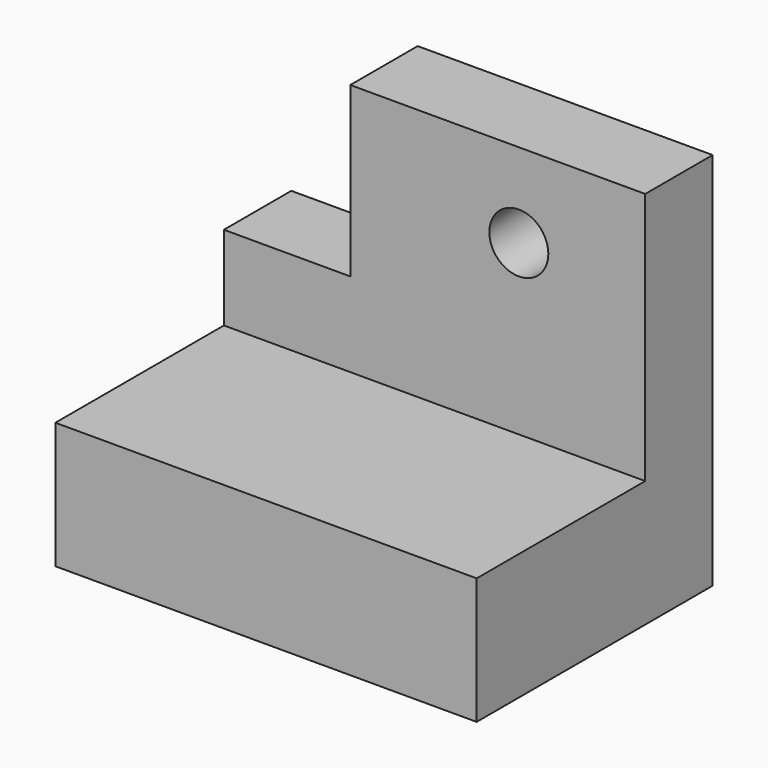
from build123d import *

# Parameters (mm, degrees)
F0_W     = 100
F0_H     = 90
F1_DEPTH = 70
F2_W     = 60
F2_H     = 70
F3_DEPTH = 100.001
F4_W     = 40
F4_H     = 50
F5_DEPTH = 20.001
F6_R     = 7
F7_DEPTH = 20.001


with BuildPart() as f1:
    # F0 (on Front) → F1 (new body)
    with BuildSketch(Plane.XZ):
        with Locations((-20, -25)):
            Rectangle(F0_W, F0_H)
    extrude(amount=F1_DEPTH)

    # F2 (on face) → F3 (cut, through all)
    with BuildSketch(Plane.YZ.offset(30)):
        with Locations((-50, -5)):
            Rectangle(F2_W, F2_H)
    extrude(amount=-F3_DEPTH, mode=Mode.SUBTRACT)

    # F4 (on face) → F5 (cut, through all)
    with BuildSketch(Plane.XZ.offset(20)):
        with Locations((-60, 5)):
            Rectangle(F4_W, F4_H)
    extrude(amount=-F5_DEPTH, mode=Mode.SUBTRACT)

    # F6 (on face) → F7 (cut, through all)
    with BuildSketch(Plane.XZ.offset(20)):
        Circle(F6_R)
    extrude(amount=-F7_DEPTH, mode=Mode.SUBTRACT)


solid = f1.part
